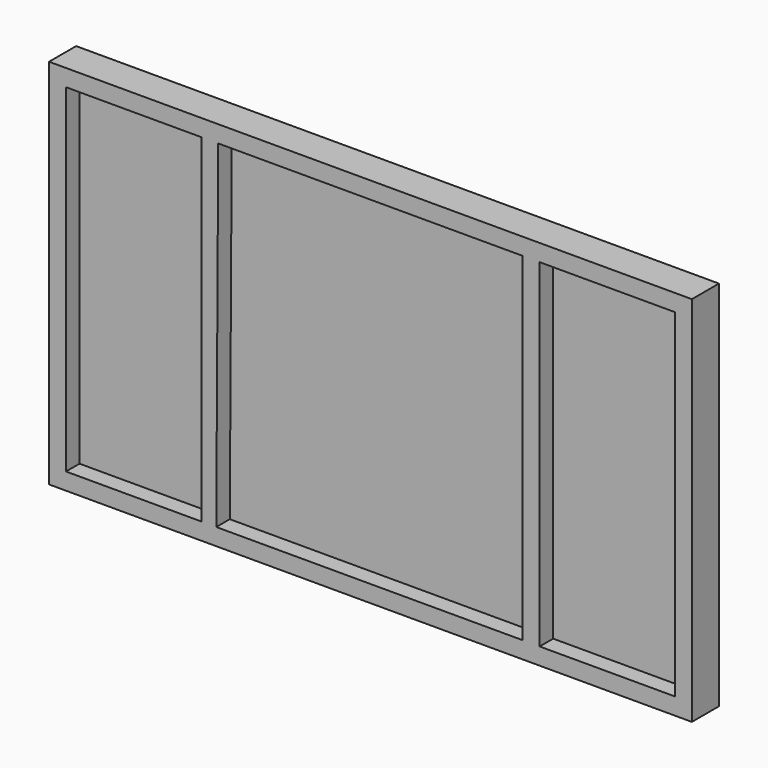
from build123d import *

# Parameters (mm, degrees)
F0_W     = 304.8
F0_H     = 190.5
F0_W_2   = 38.1
F1_DEPTH = 38.1
F2_DEPTH = 38.1
F3_DEPTH = 38.1
F4_DEPTH = 38.1
F0_W_3   = 1447.8
F0_H_2   = 838.2
F5_DEPTH = 76.2
F6_DEPTH = 76.2
F7_DEPTH = 76.2


with BuildPart() as f1:
    # F0 (on Front) → F1 (new body)
    with BuildSketch(Plane.XZ):
        with Locations((-190.5, -133.35)):
            Rectangle(F0_W, F0_H)
        with Locations((-361.95, -133.35)):
            Rectangle(F0_W_2, F0_H)
        Polygon((-381, -228.6), (-381, -38.1), (-1066.8, -38.1), (-1067.900241926, -228.6), align=None)
        Polygon((-1067.900241926, -228.6), (-1066.8, -38.1), (-1104.9, -38.1), (-1104.9, -228.6), align=None)
        with Locations((-1257.3, -133.35)):
            Rectangle(F0_W, F0_H)
    extrude(amount=F1_DEPTH)

    # F0 (on Front) → F2 (join)
    with BuildSketch(Plane.XZ):
        Polygon((-38.1, -427.021741867), (-38.1, -228.6), (-342.9, -228.6), (-342.9, -425.2613547854), align=None)
        Polygon((-342.9, -425.2613547854), (-342.9, -228.6), (-381, -228.6), (-381, -425.0413064002), align=None)
        Polygon((-381, -425.0413064002), (-381, -228.6), (-1067.900241926, -228.6), (-1069.0118481718, -421.0676608311), align=None)
        Polygon((-1069.0118481718, -421.0676608311), (-1067.900241926, -228.6), (-1104.9, -228.6), (-1104.9, -420.8603870816), align=None)
        Polygon((-1104.9, -420.8603870816), (-1104.9, -228.6), (-1409.7, -228.6), (-1409.7, -419.1), align=None)
    extrude(amount=F2_DEPTH)

    # F0 (on Front) → F3 (join)
    with BuildSketch(Plane.XZ):
        Polygon((-38.1, -609.6), (-38.1, -427.021741867), (-342.9, -425.2613547854), (-342.9, -607.8396129184), align=None)
        Polygon((-342.9, -607.8396129184), (-342.9, -425.2613547854), (-381, -425.0413064002), (-381, -607.6195645333), align=None)
        Polygon((-381, -607.6195645333), (-381, -425.0413064002), (-1069.0118481718, -421.0676608311), (-1070.0663025227, -603.6398289122), align=None)
        Polygon((-1070.0663025227, -603.6398289122), (-1069.0118481718, -421.0676608311), (-1104.9, -420.8603870816), (-1104.9, -603.4386452146), align=None)
        Polygon((-1104.9, -603.4386452146), (-1104.9, -420.8603870816), (-1409.7, -419.1), (-1409.7, -601.678258133), align=None)
    extrude(amount=F3_DEPTH)

    # F0 (on Front) → F4 (join)
    with BuildSketch(Plane.XZ):
        Polygon((-38.1, -800.1), (-38.1, -609.6), (-342.9, -607.8396129184), (-342.9, -800.1), align=None)
        Polygon((-342.9, -800.1), (-342.9, -607.8396129184), (-381, -607.6195645333), (-381, -800.1), align=None)
        Polygon((-381, -800.1), (-381, -607.6195645333), (-1070.0663025227, -603.6398289122), (-1071.2009677039, -800.1), align=None)
        Polygon((-1071.2009677039, -800.1), (-1070.0663025227, -603.6398289122), (-1104.9, -603.4386452146), (-1104.9, -800.1), align=None)
        Polygon((-1104.9, -800.1), (-1104.9, -603.4386452146), (-1409.7, -601.678258133), (-1409.7, -800.1), align=None)
    extrude(amount=F4_DEPTH)

    # F0 (on Front) → F5 (join)
    with BuildSketch(Plane.XZ):
        with Locations((-723.9, -419.1)):
            Rectangle(F0_W_3, F0_H_2)
        Polygon((-342.9, -38.1), (-38.1, -38.1), (-38.1, -228.6), (-38.1, -427.021741867), (-38.1, -609.6), (-38.1, -800.1), (-342.9, -800.1), (-381, -800.1), (-1071.2009677039, -800.1), (-1104.9, -800.1), (-1409.7, -800.1), (-1409.7, -601.678258133), (-1409.7, -419.1), (-1409.7, -228.6), (-1409.7, -38.1), (-1104.9, -38.1), (-1066.8, -38.1), (-381, -38.1), align=None, mode=Mode.SUBTRACT)
    extrude(amount=F5_DEPTH)

    # F0 (on Front) → F6 (join)
    with BuildSketch(Plane.XZ):
        Polygon((-1067.900241926, -228.6), (-1066.8, -38.1), (-1104.9, -38.1), (-1104.9, -228.6), align=None)
        Polygon((-1069.0118481718, -421.0676608311), (-1067.900241926, -228.6), (-1104.9, -228.6), (-1104.9, -420.8603870816), align=None)
        Polygon((-1070.0663025227, -603.6398289122), (-1069.0118481718, -421.0676608311), (-1104.9, -420.8603870816), (-1104.9, -603.4386452146), align=None)
        Polygon((-1071.2009677039, -800.1), (-1070.0663025227, -603.6398289122), (-1104.9, -603.4386452146), (-1104.9, -800.1), align=None)
    extrude(amount=F6_DEPTH)

    # F0 (on Front) → F7 (join)
    with BuildSketch(Plane.XZ):
        with Locations((-361.95, -133.35)):
            Rectangle(F0_W_2, F0_H)
        Polygon((-342.9, -425.2613547854), (-342.9, -228.6), (-381, -228.6), (-381, -425.0413064002), align=None)
        Polygon((-342.9, -607.8396129184), (-342.9, -425.2613547854), (-381, -425.0413064002), (-381, -607.6195645333), align=None)
        Polygon((-342.9, -800.1), (-342.9, -607.8396129184), (-381, -607.6195645333), (-381, -800.1), align=None)
    extrude(amount=F7_DEPTH)


solid = f1.part
